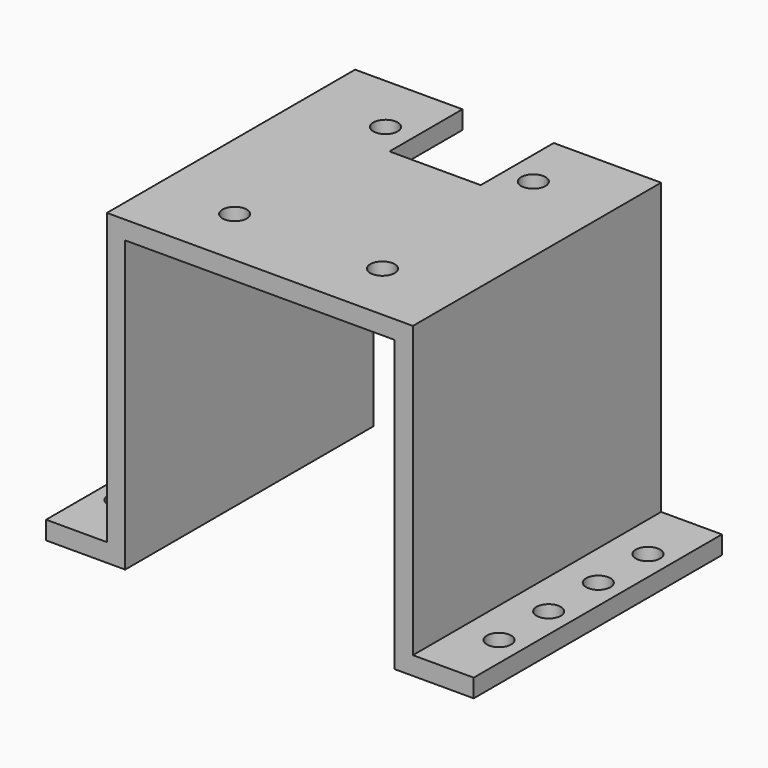
from build123d import *

# Parameters (mm, degrees)
SKETCH_W        = 70.3
SKETCH_H        = 51
PAD_DEPTH       = 50.65
SKETCH001_W     = 44.3
SKETCH001_H     = 47.65
SKETCH001_W_2   = 10
POCKET_DEPTH    = 51.001
SKETCH002_R     = 2
SKETCH002_W     = 15
SKETCH002_H     = 15
POCKET001_DEPTH = 50.651


with BuildPart() as part:
    # Sketch → Pad (new body)
    with BuildSketch(Plane.XY):
        with Locations((35.15, 25.5)):
            Rectangle(SKETCH_W, SKETCH_H)
    extrude(amount=PAD_DEPTH)

    # Sketch001 → Pocket (cut, through all)
    with BuildSketch(Plane.XZ):
        with Locations((35.15, 23.825)):
            Rectangle(SKETCH001_W, SKETCH001_H)
        with Locations((5, 26.825)):
            Rectangle(SKETCH001_W_2, SKETCH001_H)
        with Locations((65.3, 26.825)):
            Rectangle(SKETCH001_W_2, SKETCH001_H)
    extrude(amount=-POCKET_DEPTH, mode=Mode.SUBTRACT)

    # Sketch002 → Pocket001 (cut, through all)
    with BuildSketch(Plane.XY.offset(50.65)):
        with Locations((23, 41)):
            Circle(SKETCH002_R)
        with Locations((47.3, 41)):
            Circle(SKETCH002_R)
        with Locations((23, 10)):
            Circle(SKETCH002_R)
        with Locations((47.3, 10)):
            Circle(SKETCH002_R)
        with Locations((4, 40.8)):
            Circle(SKETCH002_R)
        with Locations((4, 30.6)):
            Circle(SKETCH002_R)
        with Locations((4, 20.4)):
            Circle(SKETCH002_R)
        with Locations((4, 10.2)):
            Circle(SKETCH002_R)
        with Locations((66.3, 40.8)):
            Circle(SKETCH002_R)
        with Locations((66.3, 30.6)):
            Circle(SKETCH002_R)
        with Locations((66.3, 20.4)):
            Circle(SKETCH002_R)
        with Locations((66.3, 10.2)):
            Circle(SKETCH002_R)
        with Locations((35.15, 43.5)):
            Rectangle(SKETCH002_W, SKETCH002_H)
    extrude(amount=-POCKET001_DEPTH, mode=Mode.SUBTRACT)


solid = part.part
